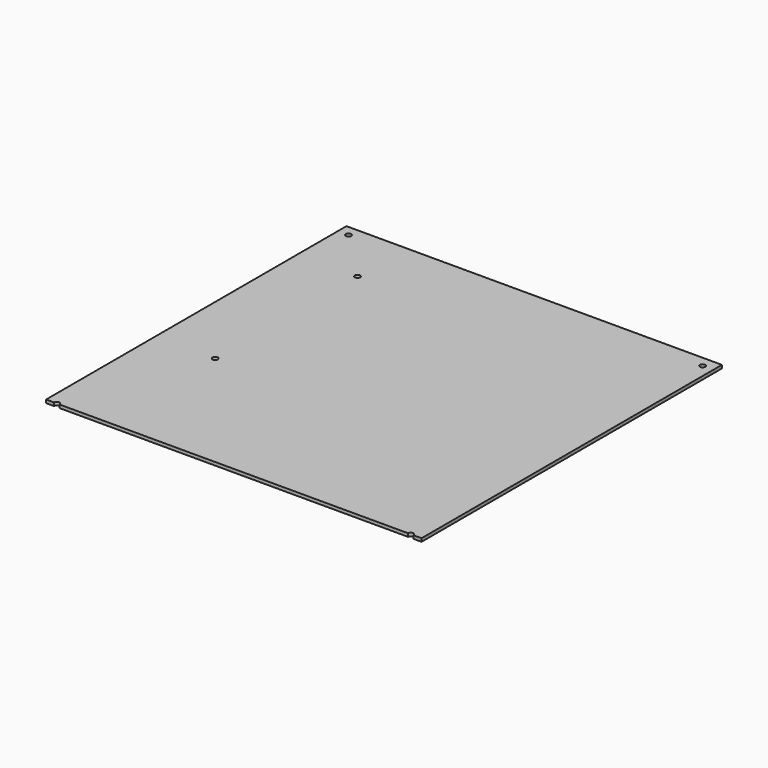
from build123d import *

# Parameters (mm, degrees)
F0_W     = 700
F0_H     = 700
F1_DEPTH = 6
F2_D     = 10
F2_DEPTH = 12
F2_TIP   = 3.0043030951


with BuildPart() as f1:
    # F0 (on Top) → F1 (new body)
    with BuildSketch(Plane.XY):
        Rectangle(F0_W, F0_H)
    extrude(amount=F1_DEPTH)

    # F2
    with Locations(Plane(origin=(0, 0, 0), x_dir=(1, 0, 0), z_dir=(0, 0, -1))):
        with Locations((-330, -330), (330, -330), (330, 350), (-330, 350), (-238.5, -236.4), (-238.5, 95.2)):
            Hole(F2_D / 2, depth=F2_DEPTH)
            with Locations((0, 0, -(F2_DEPTH + F2_TIP / 2))):  # 118° drill point
                Cone(0, F2_D / 2, F2_TIP, mode=Mode.SUBTRACT)


solid = f1.part
